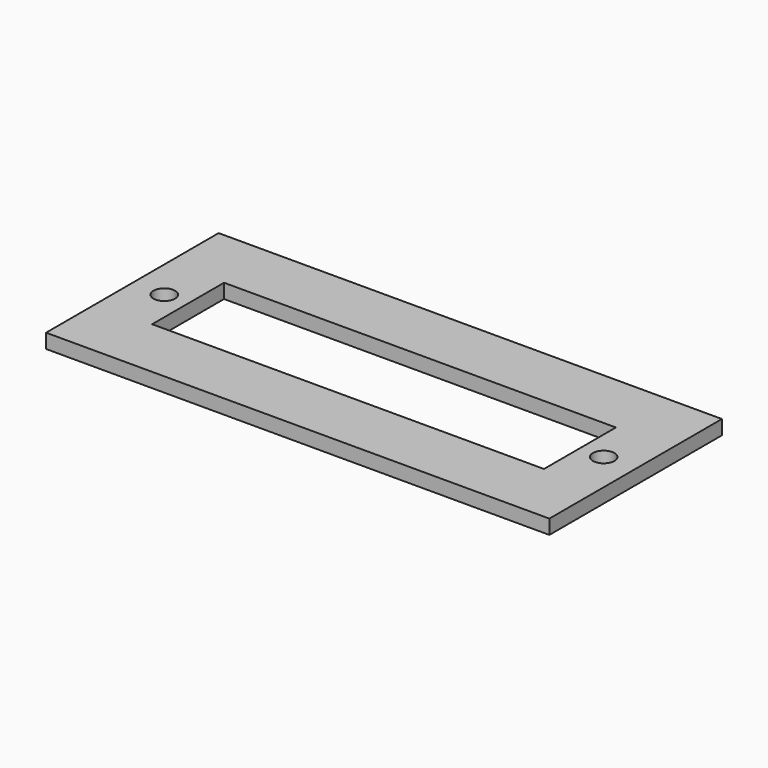
from build123d import *

# Parameters (mm, degrees)
SKETCH_W     = 70
SKETCH_H     = 30
PAD_DEPTH    = 2
SKETCH001_R  = 1.5
SKETCH001_W  = 54.5
SKETCH001_H  = 12.5
POCKET_DEPTH = 5


with BuildPart() as part:
    # Sketch → Pad (new body)
    with BuildSketch(Plane.XY):
        Rectangle(SKETCH_W, SKETCH_H)
    extrude(amount=PAD_DEPTH)

    # Sketch001 → Pocket (cut)
    with BuildSketch(Plane.XY):
        with Locations((-30.555, 0)):
            Circle(SKETCH001_R)
        with Locations((30.555, 0)):
            Circle(SKETCH001_R)
        Rectangle(SKETCH001_W, SKETCH001_H)
    extrude(amount=POCKET_DEPTH, mode=Mode.SUBTRACT)


solid = part.part
